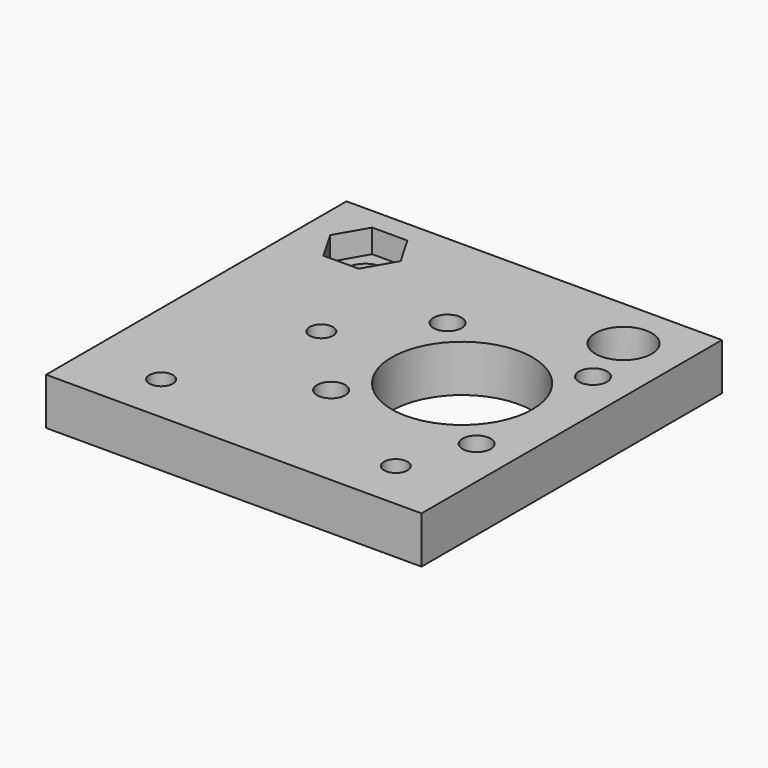
from build123d import *

# Parameters (mm, degrees)
F0_W     = 80
F0_H     = 80
F0_R     = 2.1
F0_R_2   = 4
F0_R_3   = 15
F0_R_4   = 6
F1_DEPTH = 10
F2_R     = 2.5
F3_DEPTH = 25
F4_R     = 3
F5_DEPTH = 4
F7_DEPTH = 5


with BuildPart() as f1:
    # F0 (on Top) → F1 (new body)
    with BuildSketch(Plane.XY):
        with Locations((40, -40)):
            Rectangle(F0_W, F0_H)
        with Locations((40.5, -54.699928)):
            Circle(F0_R, mode=Mode.SUBTRACT)
        with Locations((71.5, -54.699928)):
            Circle(F0_R, mode=Mode.SUBTRACT)
        with Locations((13, -11.199928)):
            Circle(F0_R_2, mode=Mode.SUBTRACT)
        with Locations((56, -39.199928)):
            Circle(F0_R_3, mode=Mode.SUBTRACT)
        with Locations((40.5, -23.699928)):
            Circle(F0_R, mode=Mode.SUBTRACT)
        with Locations((71.5, -23.699928)):
            Circle(F0_R, mode=Mode.SUBTRACT)
        with Locations((68, -11.199928)):
            Circle(F0_R_4, mode=Mode.SUBTRACT)
    extrude(amount=F1_DEPTH)

    # F2 (on face) → F3 (cut)
    with BuildSketch(Plane.XY.offset(10)):
        with Locations((26, -39.199928)):
            Circle(F2_R)
        with Locations((16, -69.349928)):
            Circle(F2_R)
        with Locations((66, -69.349928)):
            Circle(F2_R)
    extrude(amount=-F3_DEPTH, mode=Mode.SUBTRACT)

    # F4 (on face) → F5 (cut)
    with BuildSketch(Plane.XY.offset(10)):
        with Locations((40.5, -23.699928)):
            Circle(F4_R)
        with Locations((71.5, -23.699928)):
            Circle(F4_R)
        with Locations((40.5, -54.699928)):
            Circle(F4_R)
        with Locations((71.5, -54.699928)):
            Circle(F4_R)
    extrude(amount=-F5_DEPTH, mode=Mode.SUBTRACT)

    # F6 (on face) → F7 (cut)
    with BuildSketch(Plane.XY.offset(10)):
        Polygon((16.752777, -4.699928), (9.247223, -4.699928), (5.494447, -11.199928), (9.247223, -17.699928), (16.752777, -17.699928), (20.505553, -11.199928), align=None)
    extrude(amount=-F7_DEPTH, mode=Mode.SUBTRACT)


solid = f1.part
